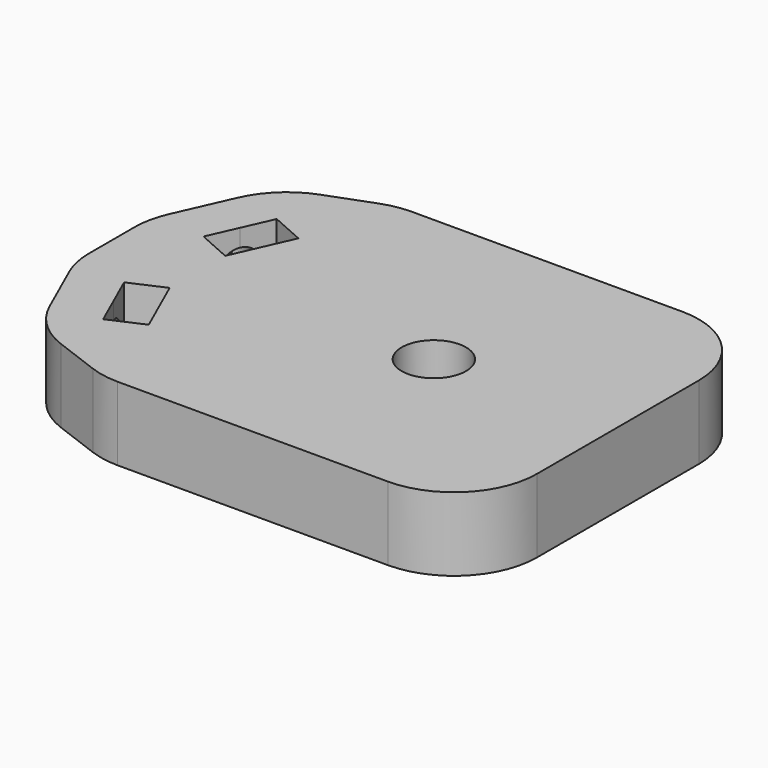
from build123d import *

# Parameters (mm, degrees)
F0_W     = 40
F0_H     = 40
F0_R     = 3.5
F1_DEPTH = 8
F2_R     = 2.1
F3_DEPTH = 12
F4_R     = 2.1
F5_DEPTH = 12
F6_R     = 9


with BuildPart() as f1:
    # F0 (on Top) → F1 (new body)
    with BuildSketch(Plane.XY):
        Polygon((-30, 0), (-30, 16.25), (-35, 5), (-35, 0), (-35, -5), (-30, -16.25), align=None)
        Polygon((-20, -20), (-20, 20), (-30, 16.25), (-30, 0), (-30, -16.25), align=None)
        Polygon((-26.5094576257, -11.7926480899), (-27.9309422569, -8.5943076697), (-29.3524268881, -5.3959672496), (-25.6971806936, -3.7714133853), (-22.8542114312, -10.1680942257), align=None, mode=Mode.SUBTRACT)
        Polygon((-29.3524268881, 5.3959672496), (-27.9309422569, 8.5943076697), (-26.5094576257, 11.7926480899), (-22.8542114312, 10.1680942257), (-25.6971806936, 3.7714133853), align=None, mode=Mode.SUBTRACT)
        Rectangle(F0_W, F0_H)
        Circle(F0_R, mode=Mode.SUBTRACT)
    extrude(amount=F1_DEPTH)

    # F2 (on face) → F3 (cut)
    with BuildSketch(Plane(origin=(-31.0824742268, 13.8144329897, 0), x_dir=(-0.4061384661, -0.9138115486, 0), z_dir=(-0.9138115486, 0.4061384661, 0))):
        with Locations((3.4902524426, 4)):
            Circle(F2_R)
    extrude(amount=-F3_DEPTH, mode=Mode.SUBTRACT)

    # F4 (on face) → F5 (cut)
    with BuildSketch(Plane(origin=(-31.0824742268, -13.8144329897, 0), x_dir=(0.4061384661, -0.9138115486, 0), z_dir=(-0.9138115486, -0.4061384661, 0))):
        with Locations((-3.4902524426, 4)):
            Circle(F4_R)
    extrude(amount=-F5_DEPTH, mode=Mode.SUBTRACT)

    # F6
    f6_edges = [f1.edges().sort_by_distance(p)[0] for p in [
        (20, -20, 4),
        (20, 20, 4),
        (-20, -20, 4),
        (-30, -16.25, 4),
        (-35, -5, 4),
        (-35, 5, 4),
        (-30, 16.25, 4),
        (-20, 20, 4),
    ]]
    fillet(f6_edges, radius=F6_R)


solid = f1.part
